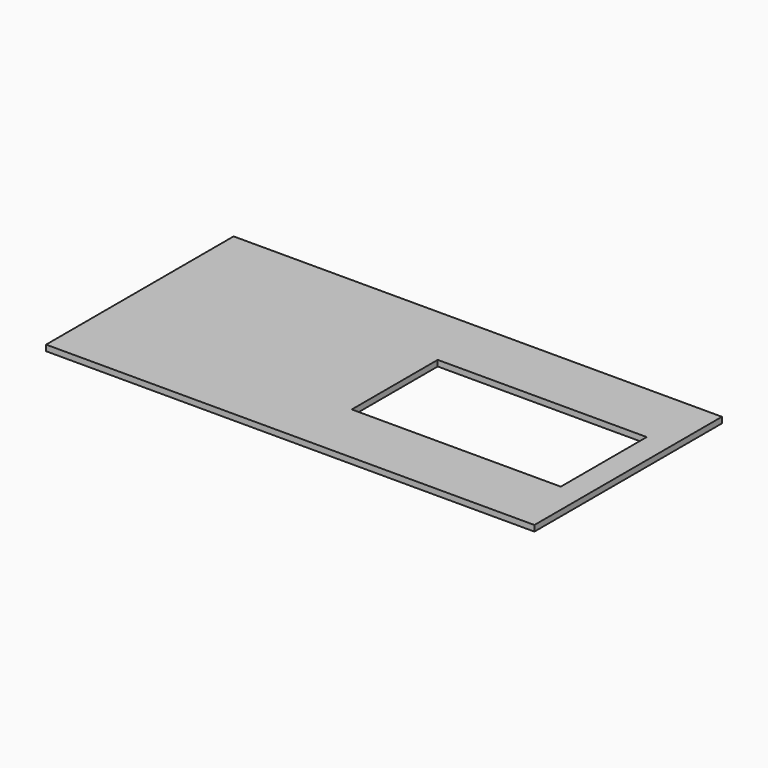
from build123d import *

# Parameters (mm, degrees)
SKETCH_W   = 500
SKETCH_H   = 240
SKETCH_W_2 = 214
SKETCH_H_2 = 110
PAD_DEPTH  = 6


with BuildPart() as part:
    # Sketch → Pad (new body)
    with BuildSketch(Plane.XY):
        with Locations((250, 120)):
            Rectangle(SKETCH_W, SKETCH_H)
        with Locations((368, 120)):
            Rectangle(SKETCH_W_2, SKETCH_H_2, mode=Mode.SUBTRACT)
    extrude(amount=PAD_DEPTH)


solid = part.part
